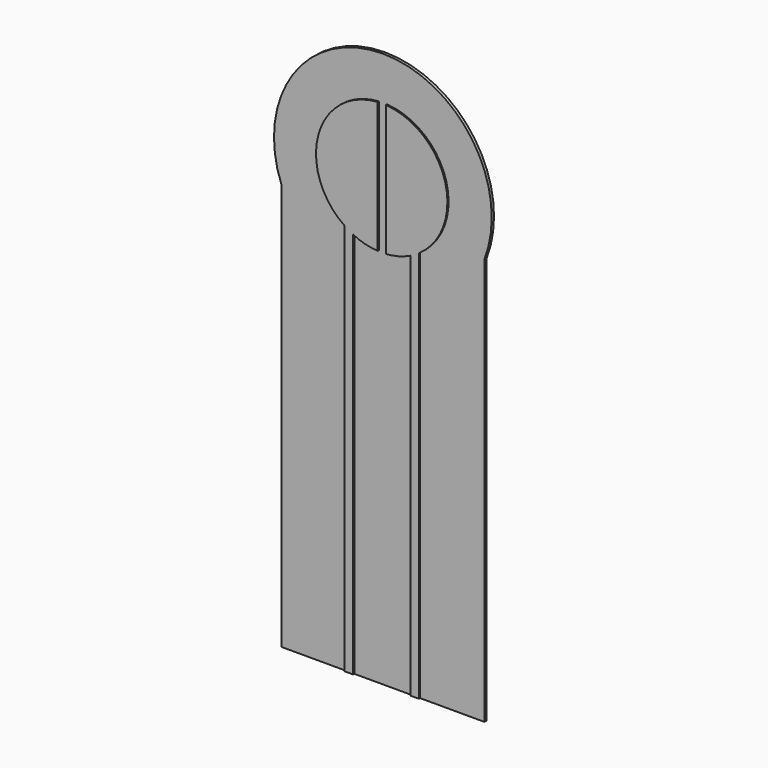
from build123d import *

# Parameters (mm, degrees)
F1_DEPTH = 0.1
F3_DEPTH = 0.05


with BuildPart() as f1:
    # F0 (on Front) → F1 (new body)
    with BuildSketch(Plane.XZ):
        with BuildLine():
            Line((-3.555, -7.811804), (3.555, -7.811804))
            Line((3.555, -7.811804), (3.555, 6.441375))
            ThreePointArc((3.555, 6.441375), (0, 11.621804), (-3.555, 6.441375))
            Line((-3.555, 6.441375), (-3.555, -7.811804))
        make_face()
    extrude(amount=F1_DEPTH)

    # F2 (on face) → F3 (join)
    with BuildSketch(Plane.XZ.offset(0.1)):
        with BuildLine():
            Line((-0.141701, 5.516975), (-0.141713, 10.106631))
            ThreePointArc((-0.141713, 10.106631), (-2.216193, 8.424019), (-1.2996, 5.915133))
            Line((-1.2996, 5.915133), (-1.2996, -7.811803))
            Line((-1.2996, -7.811803), (-0.9996, -7.811803))
            Line((-0.9996, -7.811803), (-0.9996, 5.741268))
            ThreePointArc((-0.9996, 5.741268), (-0.581566, 5.587371), (-0.141701, 5.516975))
        make_face()
        with BuildLine():
            ThreePointArc((1.2996, 5.915133), (2.216191, 8.424025), (0.141701, 10.106632))
            Line((0.141701, 10.106632), (0.141713, 5.516976))
            ThreePointArc((0.141713, 5.516976), (0.581571, 5.587373), (0.9996, 5.741268))
            Line((0.9996, 5.741268), (0.9996, -7.811803))
            Line((0.9996, -7.811803), (1.2996, -7.811803))
            Line((1.2996, -7.811803), (1.2996, 5.915133))
        make_face()
    extrude(amount=F3_DEPTH)


solid = f1.part
